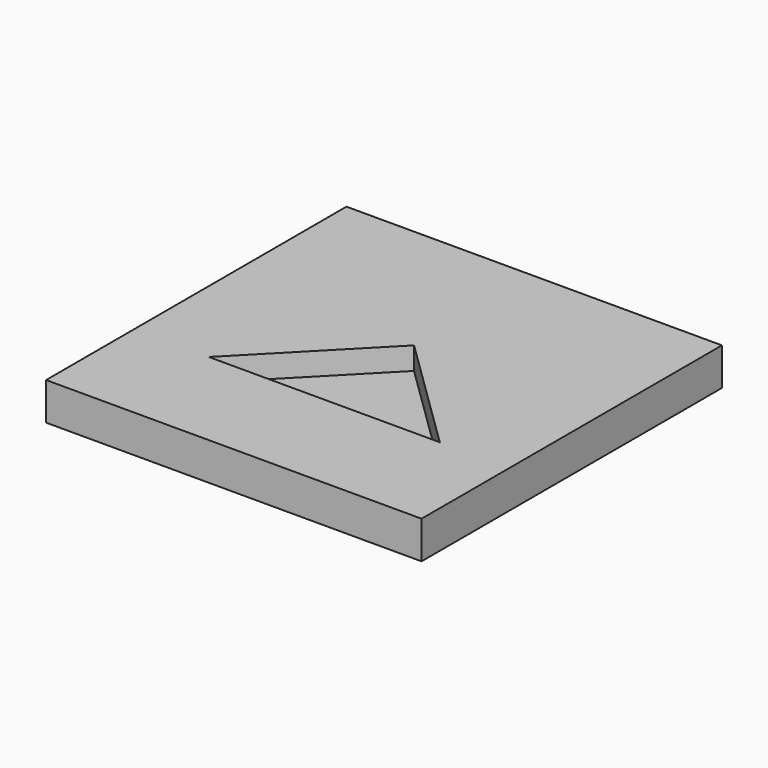
from build123d import *

# Parameters (mm, degrees)
PAD_DEPTH    = 12
SKETCH001_W  = 100
SKETCH001_H  = 100
PAD001_DEPTH = 10


with BuildPart() as body:
    # Sketch → Pad (new body)
    with BuildSketch(Plane.XY):
        Polygon((-30.054117, -20.75305), (31.468237, -20.75305), (0, 10), align=None)
    extrude(amount=PAD_DEPTH)


with BuildPart() as body_1:
    # Body placement: moved
    add(body.part.moved(Location((0, 0, -6))))


with BuildPart() as cut:
    # Sketch001 → Pad001 (new body)
    with BuildSketch(Plane.XY):
        Rectangle(SKETCH001_W, SKETCH001_H)
    extrude(amount=PAD001_DEPTH)


with BuildPart() as cut_1:
    # Body001 placement: moved
    add(cut.part.moved(Location((0, 0, -10))))

    # Cut: cut Body
    add(body_1.part, mode=Mode.SUBTRACT)


solid = cut_1.part
